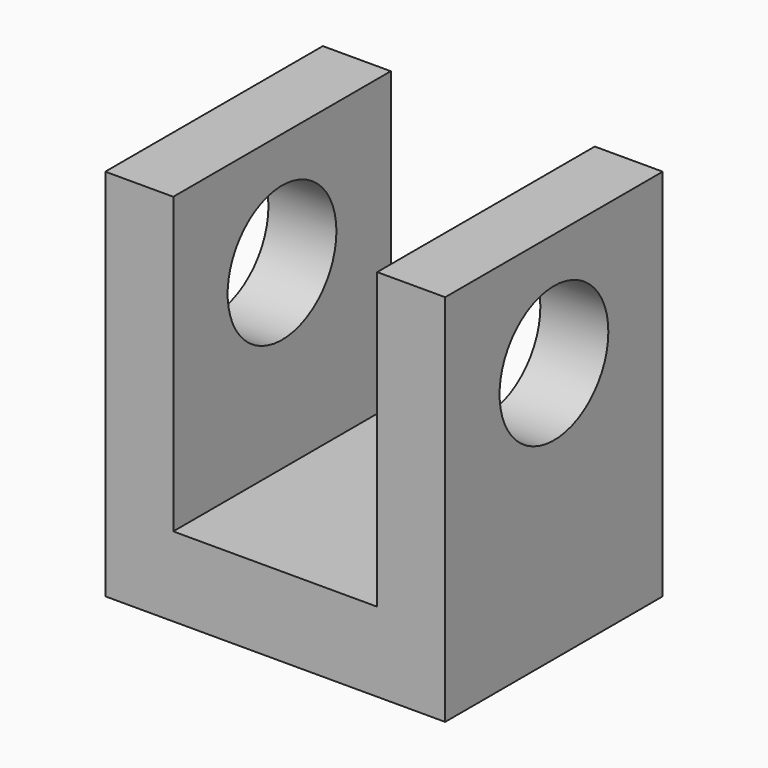
from build123d import *

# Parameters (mm, degrees)
F1_DEPTH = 76.2
F3_D     = 38.1


with BuildPart() as f1:
    # F0 (on Front) → F1 (new body)
    with BuildSketch(Plane.XZ):
        Polygon((-47.625, 52.3875), (-47.625, -52.3875), (47.625, -52.3875), (47.625, 52.3875), (28.575, 52.3875), (28.575, -30.1625), (-28.575, -30.1625), (-28.575, 52.3875), align=None)
    extrude(amount=F1_DEPTH)

    # F3 (through all)
    with Locations(Plane(origin=(-47.625, 0, 0), x_dir=(0, -1, 0), z_dir=(-1, 0, 0))):
        with Locations((38.1, 20.6375)):
            Hole(F3_D / 2)


solid = f1.part
